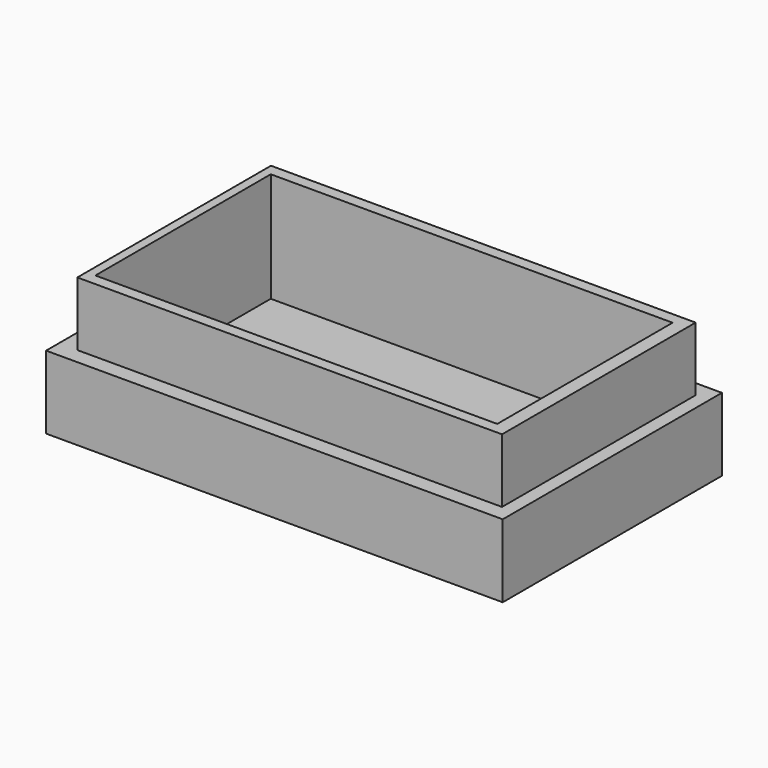
from build123d import *

# Parameters (mm, degrees)
SKETCH_W        = 50
SKETCH_H        = 30
PAD_DEPTH       = 15
SKETCH002_W     = 44
SKETCH002_H     = 24
POCKET_DEPTH    = 12
SKETCH003_W     = 52.437362
SKETCH003_H     = 33.156771
SKETCH003_W_2   = 46.5
SKETCH003_H_2   = 26.5
POCKET001_DEPTH = 7


with BuildPart() as part:
    # Sketch → Pad (new body)
    with BuildSketch(Plane.XY):
        Rectangle(SKETCH_W, SKETCH_H)
    extrude(amount=PAD_DEPTH)

    # Sketch002 (on Face6 of Pad) → Pocket (cut)
    with BuildSketch(Plane.XY.offset(15)):
        Rectangle(SKETCH002_W, SKETCH002_H)
    extrude(amount=-POCKET_DEPTH, mode=Mode.SUBTRACT)

    # Sketch003 (on Face5 of Pocket) → Pocket001 (cut)
    with BuildSketch(Plane.XY.offset(15)):
        with Locations((-0.04809, 0.412657)):
            Rectangle(SKETCH003_W, SKETCH003_H)
        with Locations((0.272907, 0)):
            Rectangle(SKETCH003_W_2, SKETCH003_H_2, mode=Mode.SUBTRACT)
    extrude(amount=-POCKET001_DEPTH, mode=Mode.SUBTRACT)


solid = part.part
